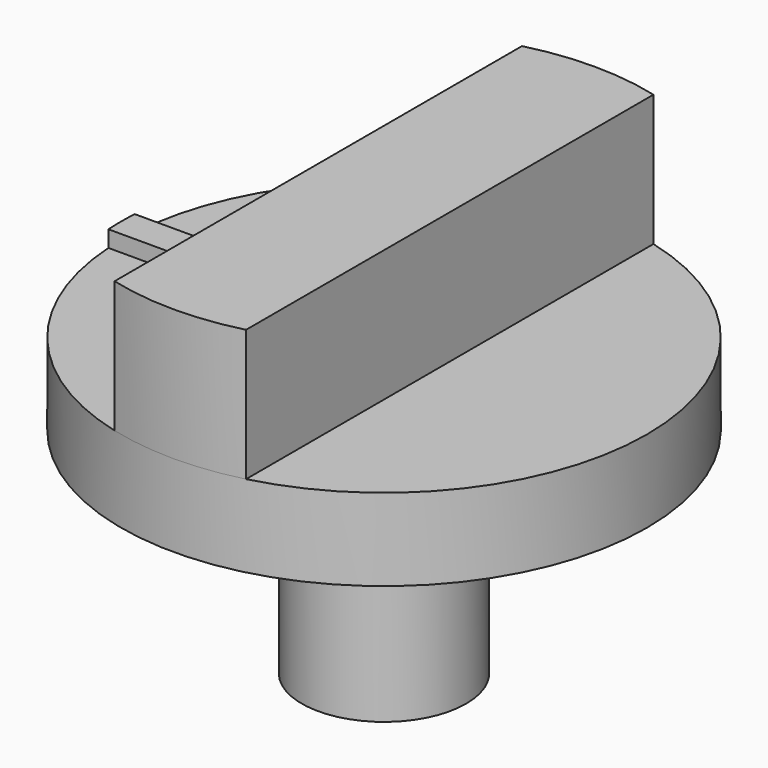
from build123d import *

# Parameters (mm, degrees)
F0_R     = 5
F1_DEPTH = 13
F2_R     = 16
F2_R_2   = 5
F3_DEPTH = 5
F5_DEPTH = 8
F7_DEPTH = 1


with BuildPart() as f1:
    # F0 (on Top) → F1 (new body)
    with BuildSketch(Plane.XY):
        Circle(F0_R)
        with BuildLine():
            ThreePointArc((1.2, -2.9664793948), (-3.2, 0), (1.2, 2.9664793948))
            Line((1.2, 2.9664793948), (1.2, -2.9664793948))
        make_face(mode=Mode.SUBTRACT)
    extrude(amount=F1_DEPTH)

    # F2 (on face) → F3 (join)
    with BuildSketch(Plane.XY.offset(13)):
        Circle(F2_R)
        Circle(F2_R_2, mode=Mode.SUBTRACT)
        Circle(F2_R_2)
        with BuildLine():
            Line((1.2, 2.9664793948), (1.2, -2.9664793948))
            ThreePointArc((1.2, -2.9664793948), (-3.2, 0), (1.2, 2.9664793948))
        make_face(mode=Mode.SUBTRACT)
        with BuildLine():
            ThreePointArc((1.2, 2.9664793948), (-3.2, 0), (1.2, -2.9664793948))
            Line((1.2, -2.9664793948), (1.2, 2.9664793948))
        make_face()
    extrude(amount=F3_DEPTH)

    # F4 (on face) → F5 (join)
    with BuildSketch(Plane.XY.offset(18)):
        with BuildLine():
            ThreePointArc((4, 15.4919333848), (0, 16), (-4, 15.4919333848))
            Line((-4, 15.4919333848), (-4, -15.4919333848))
            ThreePointArc((-4, -15.4919333848), (0, -16), (4, -15.4919333848))
            Line((4, -15.4919333848), (4, 15.4919333848))
        make_face()
    extrude(amount=F5_DEPTH)

    # F6 (on face) → F7 (join)
    with BuildSketch(Plane.XY.offset(18)):
        with BuildLine():
            Line((-4, 1), (-15.9687194227, 1))
            ThreePointArc((-15.9687194227, 1), (-16, 0), (-15.9687194227, -1))
            Line((-15.9687194227, -1), (-4, -1))
            Line((-4, -1), (-4, 1))
        make_face()
    extrude(amount=F7_DEPTH)


solid = f1.part
